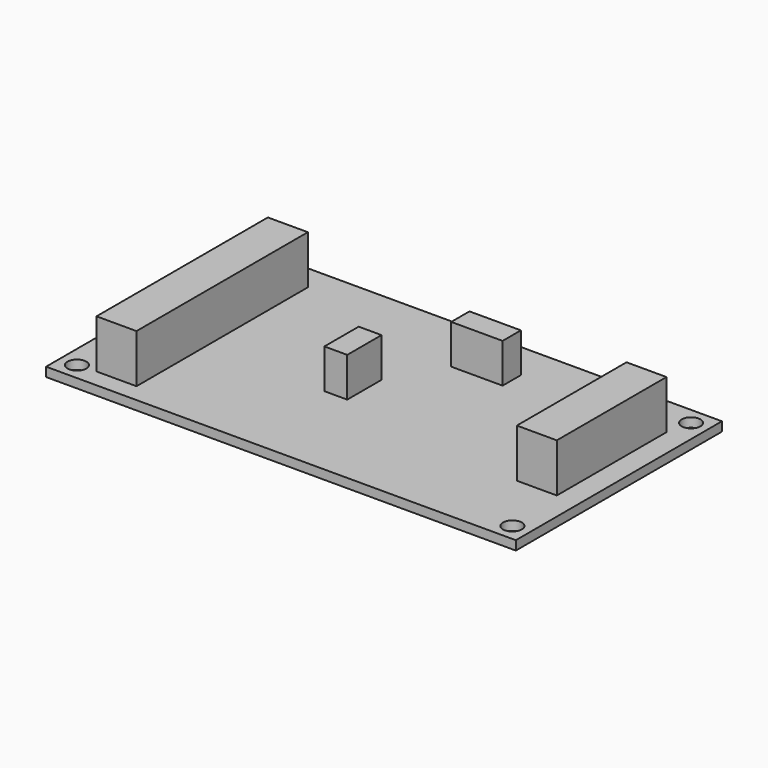
from build123d import *

# Parameters (mm, degrees)
EXTRUDE002_DEPTH = 2.15
SKETCH002_W      = 82.25
SKETCH002_H      = 45.1
SKETCH002_R      = 1.65
EXTRUDE003_DEPTH = 1.6
SKETCH004_W      = 7
SKETCH004_H      = 24
EXTRUDE004_DEPTH = 8.5
SKETCH048_W      = 9
SKETCH048_H      = 4
SKETCH048_W_2    = 4
SKETCH048_H_2    = 7.5
EXTRUDE049_DEPTH = 8.5
SKETCH005_W      = 7
SKETCH005_H      = 37.5
EXTRUDE005_DEPTH = 8.5


with BuildPart() as obj1:
    # Sketch003 → Extrude002 (new body)
    with BuildSketch(Plane.XY):
        Polygon((76.75, 36.6), (76.75, 17.05), (59.85, 17.05), (59.85, 6.1), (8.6, 6.1), (8.6, 39.3), (16.6, 39.3), (16.6, 36.6), align=None)
    extrude(amount=-EXTRUDE002_DEPTH)


with BuildPart() as obj2:
    # Sketch002 → Extrude003 (new body)
    with BuildSketch(Plane.XY):
        with Locations((41.125, 22.55)):
            Rectangle(SKETCH002_W, SKETCH002_H)
        with Locations((3, 42.1)):
            Circle(SKETCH002_R, mode=Mode.SUBTRACT)
        with Locations((79.25, 42.1)):
            Circle(SKETCH002_R, mode=Mode.SUBTRACT)
        with Locations((3, 3)):
            Circle(SKETCH002_R, mode=Mode.SUBTRACT)
        with Locations((79.25, 3)):
            Circle(SKETCH002_R, mode=Mode.SUBTRACT)
    extrude(amount=EXTRUDE003_DEPTH)


with BuildPart() as obj3:
    # Sketch004 → Extrude004 (new body)
    with BuildSketch(Plane.XY):
        with Locations((74.85, 25.84)):
            Rectangle(SKETCH004_W, SKETCH004_H)
    extrude(amount=EXTRUDE004_DEPTH)


with BuildPart() as obj3_1:
    # Extrude004 placement: moved
    add(obj3.part.moved(Location((0, 0, 1.6))))


with BuildPart() as obj4:
    # Sketch048 → Extrude049 (new body)
    with BuildSketch(Plane.XY):
        with Locations((47.75, 36.6)):
            Rectangle(SKETCH048_W, SKETCH048_H)
        with Locations((36.25, 21.85)):
            Rectangle(SKETCH048_W_2, SKETCH048_H_2)
    extrude(amount=EXTRUDE049_DEPTH)


with BuildPart() as obj5:
    # Sketch005 → Extrude005 (new body)
    with BuildSketch(Plane.XY):
        with Locations((9.77, 21.95)):
            Rectangle(SKETCH005_W, SKETCH005_H)
    extrude(amount=EXTRUDE005_DEPTH)


with BuildPart() as obj5_1:
    # Extrude005 placement: moved
    add(obj5.part.moved(Location((0, 0, 1.6))))

    # Fusion001: union obj1, obj2, obj3, obj4
    add(obj1.part)
    add(obj2.part)
    add(obj3_1.part)
    add(obj4.part)


with BuildPart() as obj5_2:
    # Fusion001 placement: moved
    add(obj5_1.part.moved(Location((0, 0, 4))))


solid = obj5_2.part
